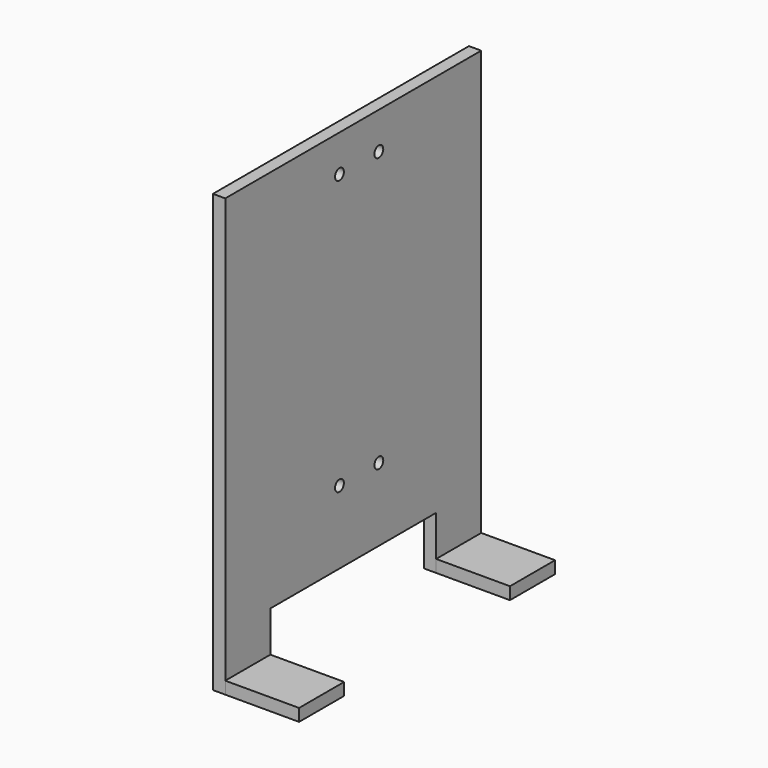
from build123d import *

# Parameters (mm, degrees)
F0_R     = 2.25
F1_DEPTH = 5
F2_W     = 22.901535
F2_H     = 5
F3_DEPTH = 30


with BuildPart() as f1:
    # F0 (on Right) → F1 (new body)
    with BuildSketch(Plane.YZ):
        Polygon((62, 70.5), (-68, 70.5), (-68, -85.5), (-68, -107.009701), (-45.098465, -107.009701), (-45.098465, -85.5), (39.098465, -85.5), (39.098465, -107.009701), (62, -107.009701), (62, -85.5), align=None)
        with Locations((-10, -55.8)):
            Circle(F0_R, mode=Mode.SUBTRACT)
        with Locations((10, -55.8)):
            Circle(F0_R, mode=Mode.SUBTRACT)
        with Locations((-10, 55.53)):
            Circle(F0_R, mode=Mode.SUBTRACT)
        with Locations((10, 55.53)):
            Circle(F0_R, mode=Mode.SUBTRACT)
    extrude(amount=F1_DEPTH)

    # F2 (on face) → F3 (join)
    with BuildSketch(Plane.YZ.offset(5)):
        with Locations((-56.549233, -104.509701)):
            Rectangle(F2_W, F2_H)
        with Locations((50.549233, -104.509701)):
            Rectangle(F2_W, F2_H)
    extrude(amount=F3_DEPTH)


solid = f1.part
